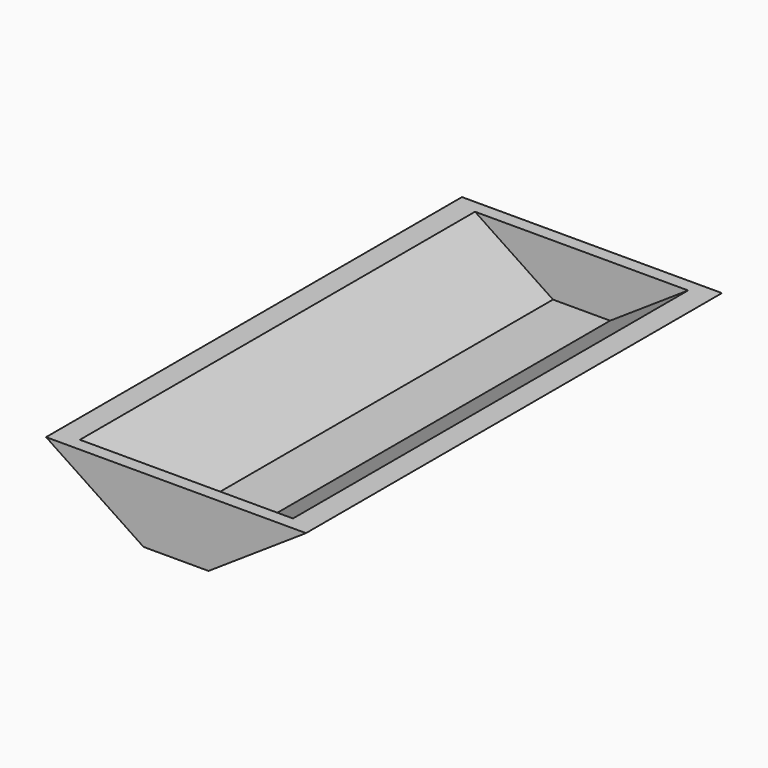
from build123d import *

# Parameters (mm, degrees)
F0_W     = 50.8
F0_H     = 12.7
F1_DEPTH = 101.6
F3_DEPTH = 101.6
F5_DEPTH = 101.6
F6_T     = -2.54


with BuildPart() as f1:
    # F0 (on Front) → F1 (new body)
    with BuildSketch(Plane.XZ):
        with Locations((25.4, 6.35)):
            Rectangle(F0_W, F0_H)
    extrude(amount=-F1_DEPTH)

    # F2 (on face) → F3 (cut)
    with BuildSketch(Plane.XZ):
        Polygon((0, 12.7), (0, 0), (19.05, 0), align=None)
    extrude(amount=-F3_DEPTH, mode=Mode.SUBTRACT)

    # F4 (on face) → F5 (cut)
    with BuildSketch(Plane.XZ):
        Polygon((31.75, 0), (50.8, 0), (50.8, 12.7), align=None)
    extrude(amount=-F5_DEPTH, mode=Mode.SUBTRACT)

    # F6
    f6_openings = [f1.faces().sort_by_distance(p)[0] for p in [
        (25.4, 50.8, 12.7),
    ]]
    offset(amount=F6_T, openings=f6_openings)


solid = f1.part
